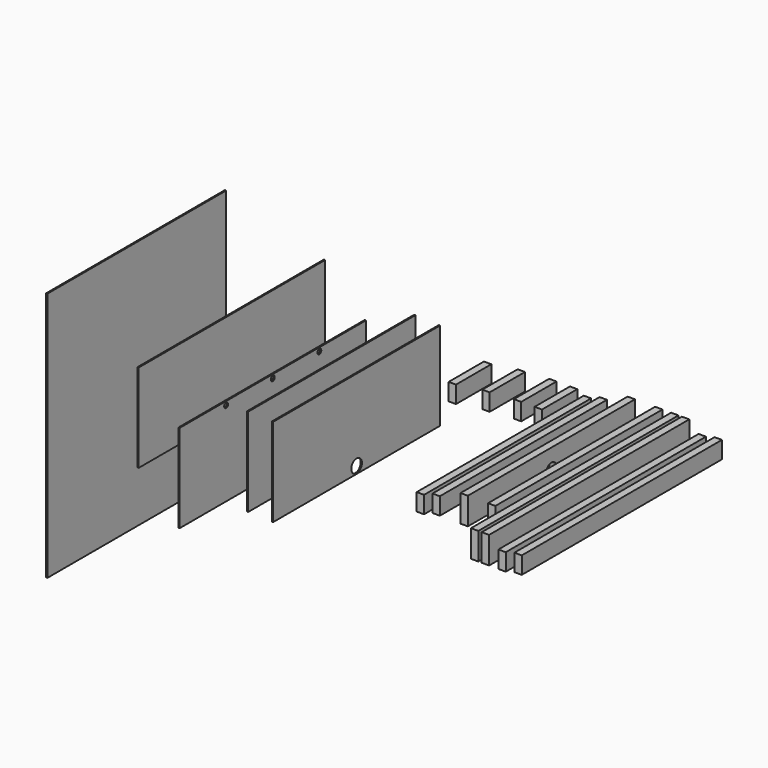
from build123d import *

# Parameters (mm, degrees)
F0_W      = 38.1
F0_H      = 139.7
F1_DEPTH  = 1295.4
F2_W      = 38.1
F2_H      = 139.7
F3_DEPTH  = 1295.4
F4_W      = 38.1
F4_H      = 139.7
F5_DEPTH  = 1081.4304
F6_W      = 38.1
F6_H      = 139.7
F7_DEPTH  = 1081.4304
F8_W      = 38.1
F8_H      = 88.9
F9_DEPTH  = 1081.4304
F10_W     = 38.1
F10_H     = 88.9
F11_DEPTH = 1081.4304
F12_W     = 38.1
F12_H     = 88.9
F13_DEPTH = 1295.4
F14_W     = 38.1
F14_H     = 88.9
F15_DEPTH = 1295.4
F16_W     = 38.1
F16_H     = 88.9
F17_DEPTH = 228.6
F18_W     = 38.1
F18_H     = 88.9
F19_DEPTH = 228.6
F20_W     = 38.1
F20_H     = 88.9
F21_DEPTH = 228.6
F22_W     = 38.1
F22_H     = 88.9
F23_DEPTH = 228.6
F24_W     = 6.35
F24_H     = 457.2
F25_DEPTH = 1081.4304
F26_W     = 6.35
F26_H     = 457.2
F27_DEPTH = 1081.4304
F28_W     = 6.35
F28_H     = 457.2
F29_DEPTH = 1206.5
F30_W     = 6.35
F30_H     = 457.2
F31_DEPTH = 1206.5
F32_W     = 6.35
F32_H     = 1295.4
F33_DEPTH = 1157.6304
F34_R     = 34.3535
F35_DEPTH = 38.1
F36_R     = 34.3535
F37_DEPTH = 38.1
F38_R     = 34.3535
F39_DEPTH = 25.4
F40_R     = 34.3535
F41_DEPTH = 25.4
F42_R     = 12.7
F43_DEPTH = 25.4


with BuildPart() as f1:
    # F0 (on Front) → F1 (new body)
    with BuildSketch(Plane.XZ):
        with Locations((19.05, 69.85)):
            Rectangle(F0_W, F0_H)
    extrude(amount=F1_DEPTH)


with BuildPart() as f3:
    # F2 (on Front) → F3 (new body)
    with BuildSketch(Plane.XZ):
        with Locations((-36.776635, 69.85)):
            Rectangle(F2_W, F2_H)
    extrude(amount=F3_DEPTH)


with BuildPart() as f5:
    # F4 (on Front) → F5 (new body)
    with BuildSketch(Plane.XZ):
        with Locations((-119.586432, 69.85)):
            Rectangle(F4_W, F4_H)
    extrude(amount=F5_DEPTH)

    # F36 (on face) → F37 (cut)
    with BuildSketch(Plane(origin=(-138.636432, 0, 0), x_dir=(0, -1, 0), z_dir=(-1, 0, 0))):
        with Locations((540.7152, 36.83)):
            Circle(F36_R)
    extrude(amount=-F37_DEPTH, mode=Mode.SUBTRACT)


with BuildPart() as f7:
    # F6 (on Front) → F7 (new body)
    with BuildSketch(Plane.XZ):
        with Locations((-262.106378, 69.85)):
            Rectangle(F6_W, F6_H)
    extrude(amount=F7_DEPTH)

    # F34 (on face) → F35 (cut)
    with BuildSketch(Plane(origin=(-281.156378, 0, 0), x_dir=(0, -1, 0), z_dir=(-1, 0, 0))):
        with Locations((540.7152, 36.83)):
            Circle(F34_R)
    extrude(amount=-F35_DEPTH, mode=Mode.SUBTRACT)


with BuildPart() as f9:
    # F8 (on Front) → F9 (new body)
    with BuildSketch(Plane.XZ):
        with Locations((-488.934726, 25.726853)):
            Rectangle(F8_W, F8_H)
    extrude(amount=F9_DEPTH)


with BuildPart() as f11:
    # F10 (on Front) → F11 (new body)
    with BuildSketch(Plane.XZ):
        with Locations((-407.079831, 45.890186)):
            Rectangle(F10_W, F10_H)
    extrude(amount=F11_DEPTH)


with BuildPart() as f13:
    # F12 (on Front) → F13 (new body)
    with BuildSketch(Plane.XZ):
        with Locations((105.433971, 44.45)):
            Rectangle(F12_W, F12_H)
    extrude(amount=F13_DEPTH)


with BuildPart() as f15:
    # F14 (on Front) → F15 (new body)
    with BuildSketch(Plane.XZ):
        with Locations((188.163266, 56.794696)):
            Rectangle(F14_W, F14_H)
    extrude(amount=F15_DEPTH)


with BuildPart() as f17:
    # F16 (on Front) → F17 (new body)
    with BuildSketch(Plane.XZ):
        with Locations((-668.121522, 44.45)):
            Rectangle(F16_W, F16_H)
    extrude(amount=F17_DEPTH)


with BuildPart() as f19:
    # F18 (on Front) → F19 (new body)
    with BuildSketch(Plane.XZ):
        with Locations((-560.658494, 44.45)):
            Rectangle(F18_W, F18_H)
    extrude(amount=F19_DEPTH)


with BuildPart() as f21:
    # F20 (on Front) → F21 (new body)
    with BuildSketch(Plane.XZ):
        with Locations((-1005.817004, 13.310429)):
            Rectangle(F20_W, F20_H)
    extrude(amount=F21_DEPTH)


with BuildPart() as f23:
    # F22 (on Front) → F23 (new body)
    with BuildSketch(Plane.XZ):
        with Locations((-831.432849, 34.70206)):
            Rectangle(F22_W, F22_H)
    extrude(amount=F23_DEPTH)


with BuildPart() as f25:
    # F24 (on Front) → F25 (new body)
    with BuildSketch(Plane.XZ):
        with Locations((-1254.771391, -80.257863)):
            Rectangle(F24_W, F24_H)
    extrude(amount=F25_DEPTH)

    # F38 (on face) → F39 (cut)
    with BuildSketch(Plane(origin=(-1257.946391, 0, 0), x_dir=(0, -1, 0), z_dir=(-1, 0, 0))):
        with Locations((540.7152, -272.027863)):
            Circle(F38_R)
    extrude(amount=-F39_DEPTH, mode=Mode.SUBTRACT)


with BuildPart() as f27:
    # F26 (on Front) → F27 (new body)
    with BuildSketch(Plane.XZ):
        with Locations((-1383.641836, -75.698666)):
            Rectangle(F26_W, F26_H)
    extrude(amount=F27_DEPTH)

    # F40 (on face) → F41 (cut)
    with BuildSketch(Plane(origin=(-1386.816836, 0, 0), x_dir=(0, -1, 0), z_dir=(-1, 0, 0))):
        with Locations((540.7152, -267.468666)):
            Circle(F40_R)
    extrude(amount=-F41_DEPTH, mode=Mode.SUBTRACT)


with BuildPart() as f29:
    # F28 (on Front) → F29 (new body)
    with BuildSketch(Plane.XZ):
        with Locations((-1639.059727, -182.259366)):
            Rectangle(F28_W, F28_H)
    extrude(amount=F29_DEPTH)

    # F42 (on face) → F43 (cut)
    with BuildSketch(Plane(origin=(-1642.234727, 0, 0), x_dir=(0, -1, 0), z_dir=(-1, 0, 0))):
        with Locations((301.625, 27.290634)):
            Circle(F42_R)
        with Locations((603.25, 27.290634)):
            Circle(F42_R)
        with Locations((904.875, 27.290634)):
            Circle(F42_R)
    extrude(amount=-F43_DEPTH, mode=Mode.SUBTRACT)


with BuildPart() as f31:
    # F30 (on Front) → F31 (new body)
    with BuildSketch(Plane.XZ):
        with Locations((-1850.231946, 24.577563)):
            Rectangle(F30_W, F30_H)
    extrude(amount=F31_DEPTH)


with BuildPart() as f33:
    # F32 (on Front) → F33 (new body)
    with BuildSketch(Plane.XZ):
        with Locations((-2362.697432, -244.610153)):
            Rectangle(F32_W, F32_H)
    extrude(amount=F33_DEPTH)


solid = Compound([f1.part, f3.part, f5.part, f7.part, f9.part, f11.part, f13.part, f15.part, f17.part, f19.part, f21.part, f23.part, f25.part, f27.part, f29.part, f31.part, f33.part])
